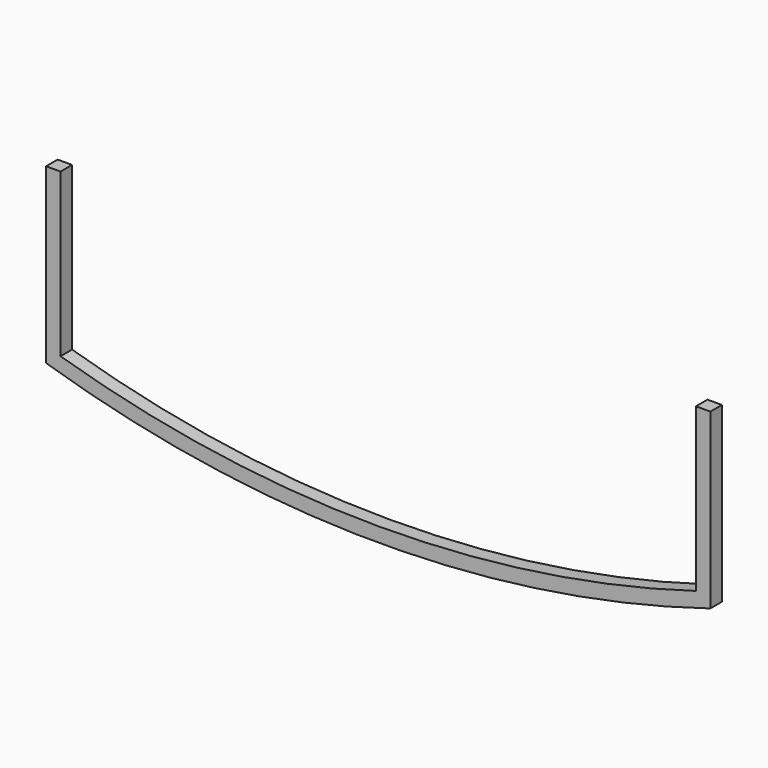
from build123d import *

# Parameters (mm, degrees)
F1_DEPTH = 25.4
F3_DEPTH = 25.401


with BuildPart() as f1:
    # F0 (on Front) → F1 (new body)
    with BuildSketch(Plane.XZ):
        with BuildLine():
            Line((584.2, 152.4), (-584.2, 152.4))
            Line((-584.2, 152.4), (-584.2, -152.4))
            ThreePointArc((-584.2, -152.4), (0, -240.490442), (584.2, -152.4))
            Line((584.2, -152.4), (584.2, 152.4))
        make_face()
    extrude(amount=F1_DEPTH)

    # F2 (on face) → F3 (cut, through all)
    with BuildSketch(Plane.XZ.offset(25.4)):
        with BuildLine():
            Line((558.8, -133.56262), (558.8, 152.4))
            Line((558.8, 152.4), (-558.8, 152.4))
            Line((-558.8, 152.4), (-558.8, -133.56262))
            ThreePointArc((-558.8, -133.56262), (0, -215.090442), (558.8, -133.56262))
        make_face()
    extrude(amount=-F3_DEPTH, mode=Mode.SUBTRACT)


solid = f1.part
